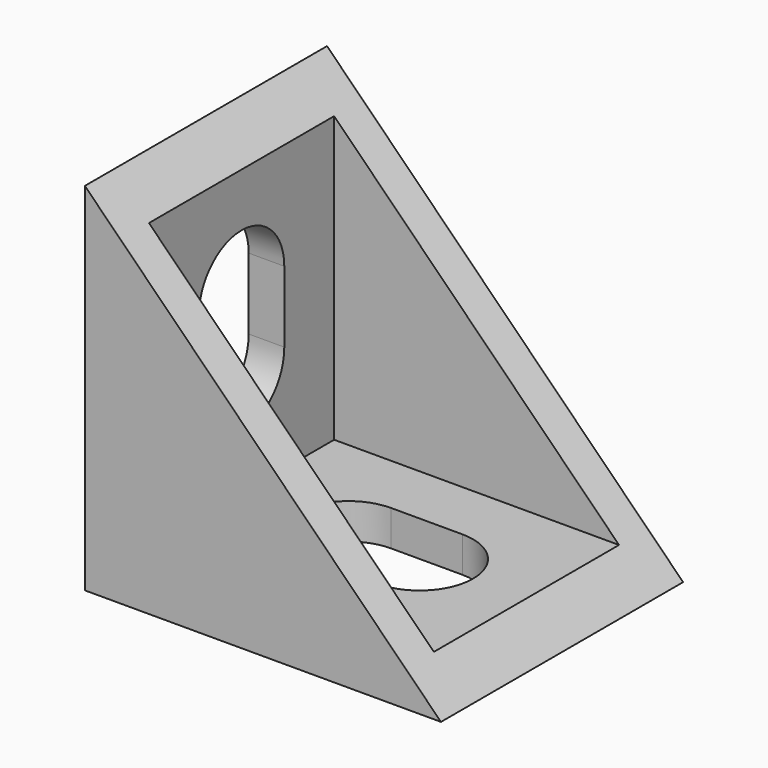
from build123d import *

# Parameters (mm, degrees)
F1_DEPTH = 17
F4_DEPTH = 13
F6_DEPTH = 2.001
F8_DEPTH = 2.001


with BuildPart() as f1:
    # F0 (on Front) → F1 (new body)
    with BuildSketch(Plane.XZ):
        Polygon((0, 20), (0, 0), (20, 0), (18, 2), (2, 2), (2, 18), align=None)
        Polygon((18, 2), (2, 18), (2, 2), align=None)
    extrude(amount=-F1_DEPTH)

    # F3 (on offset) → F4 (cut)
    with BuildSketch(Plane.XZ.offset(-2)):
        Polygon((2, 2), (18, 2), (2, 18), align=None)
    extrude(amount=-F4_DEPTH, mode=Mode.SUBTRACT)

    # F5 (on face) → F6 (cut, through all)
    with BuildSketch(Plane.YZ.offset(2)):
        with BuildLine():
            ThreePointArc((11.5, 12), (8.5, 15), (5.5, 12))
            Line((5.5, 12), (5.5, 8))
            ThreePointArc((5.5, 8), (8.5, 5), (11.5, 8))
            Line((11.5, 8), (11.5, 12))
        make_face()
    extrude(amount=-F6_DEPTH, mode=Mode.SUBTRACT)

    # F7 (on face) → F8 (cut, through all)
    with BuildSketch(Plane.XY.offset(2)):
        with BuildLine():
            ThreePointArc((8, 11.5), (5, 8.5), (8, 5.5))
            Line((8, 5.5), (12, 5.5))
            ThreePointArc((12, 5.5), (15, 8.5), (12, 11.5))
            Line((12, 11.5), (8, 11.5))
        make_face()
    extrude(amount=-F8_DEPTH, mode=Mode.SUBTRACT)


solid = f1.part
